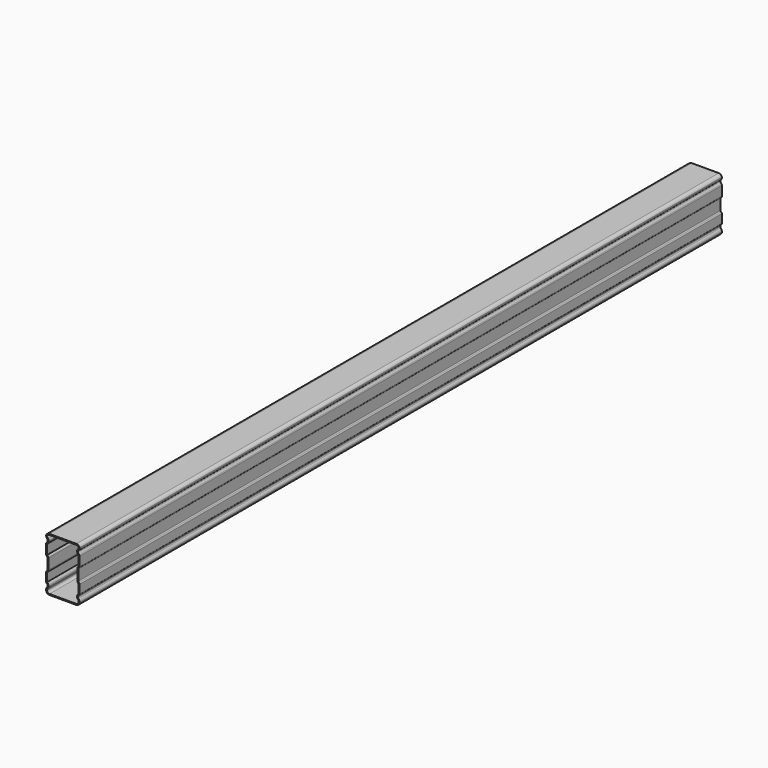
from build123d import *

# Parameters (mm, degrees)
F1_DEPTH = 1192
F2_T     = -1.5


with BuildPart() as f1:
    # F0 (on Front) → F1 (new body)
    with BuildSketch(Plane.XZ):
        with BuildLine():
            Line((-26.180391, 65.706456), (-66.371201, 65.706456))
            ThreePointArc((-66.371201, 65.706456), (-69.384465, 64.696474), (-71.180391, 62.074554))
            ThreePointArc((-71.180391, 62.074554), (-70.704452, 59.682332), (-69.349119, 57.654447))
            ThreePointArc((-69.349119, 57.654447), (-68.848906, 56.819509), (-68.802041, 55.847326))
            ThreePointArc((-68.802041, 55.847326), (-69.441389, 54.085616), (-70.574311, 52.592674))
            ThreePointArc((-70.574311, 52.592674), (-71.022651, 51.936965), (-71.180391, 51.158454))
            Line((-71.180391, 51.158454), (-71.180391, 37.170454))
            ThreePointArc((-71.180391, 37.170454), (-70.912442, 36.170454), (-70.180391, 35.438403))
            ThreePointArc((-70.180391, 35.438403), (-69.448341, 34.706352), (-69.180391, 33.706352))
            Line((-69.180391, 33.706352), (-69.180391, 17.706456))
            ThreePointArc((-69.180391, 17.706456), (-69.448341, 16.706456), (-70.180391, 15.974405))
            ThreePointArc((-70.180391, 15.974405), (-70.912442, 15.242355), (-71.180391, 14.242355))
            Line((-71.180391, 14.242355), (-71.180391, 1.642835))
            ThreePointArc((-71.180391, 1.642835), (-71.017419, 0.852057), (-70.555062, 0.190155))
            ThreePointArc((-70.555062, 0.190155), (-69.407243, -1.302963), (-68.778829, -3.078347))
            ThreePointArc((-68.778829, -3.078347), (-68.836672, -4.038251), (-69.335836, -4.860197))
            ThreePointArc((-69.335836, -4.860197), (-70.700856, -6.892661), (-71.180391, -9.293544))
            ThreePointArc((-71.180391, -9.293544), (-69.715925, -12.829078), (-66.180391, -14.293544))
            Line((-66.180391, -14.293544), (-26.371201, -14.293544))
            ThreePointArc((-26.371201, -14.293544), (-22.835667, -12.829078), (-21.371201, -9.293544))
            ThreePointArc((-21.371201, -9.293544), (-21.850737, -6.892661), (-23.215757, -4.860197))
            ThreePointArc((-23.215757, -4.860197), (-23.71492, -4.038251), (-23.772764, -3.078347))
            ThreePointArc((-23.772764, -3.078347), (-23.14435, -1.302963), (-21.99653, 0.190155))
            ThreePointArc((-21.99653, 0.190155), (-21.534174, 0.852057), (-21.371201, 1.642835))
            Line((-21.371201, 1.642835), (-21.371201, 14.242355))
            ThreePointArc((-21.371201, 14.242355), (-21.639151, 15.242355), (-22.371201, 15.974405))
            ThreePointArc((-22.371201, 15.974405), (-23.103252, 16.706456), (-23.371201, 17.706456))
            Line((-23.371201, 17.706456), (-23.371201, 33.706352))
            ThreePointArc((-23.371201, 33.706352), (-23.103252, 34.706352), (-22.371201, 35.438403))
            ThreePointArc((-22.371201, 35.438403), (-21.639151, 36.170454), (-21.371201, 37.170454))
            Line((-21.371201, 37.170454), (-21.371201, 51.158454))
            ThreePointArc((-21.371201, 51.158454), (-21.528942, 51.936965), (-21.977282, 52.592674))
            ThreePointArc((-21.977282, 52.592674), (-23.110203, 54.085616), (-23.749551, 55.847326))
            ThreePointArc((-23.749551, 55.847326), (-23.702687, 56.819509), (-23.202474, 57.654447))
            ThreePointArc((-23.202474, 57.654447), (-21.847141, 59.682332), (-21.371201, 62.074554))
            ThreePointArc((-21.371201, 62.074554), (-23.167128, 64.696474), (-26.180391, 65.706456))
        make_face()
    extrude(amount=F1_DEPTH)

    # F2
    f2_openings = [f1.faces().sort_by_distance(p)[0] for p in [
        (-46.275796, -1192, 25.7149),
        (-46.275796, 0, 25.7149),
    ]]
    offset(amount=F2_T, openings=f2_openings)


solid = f1.part
